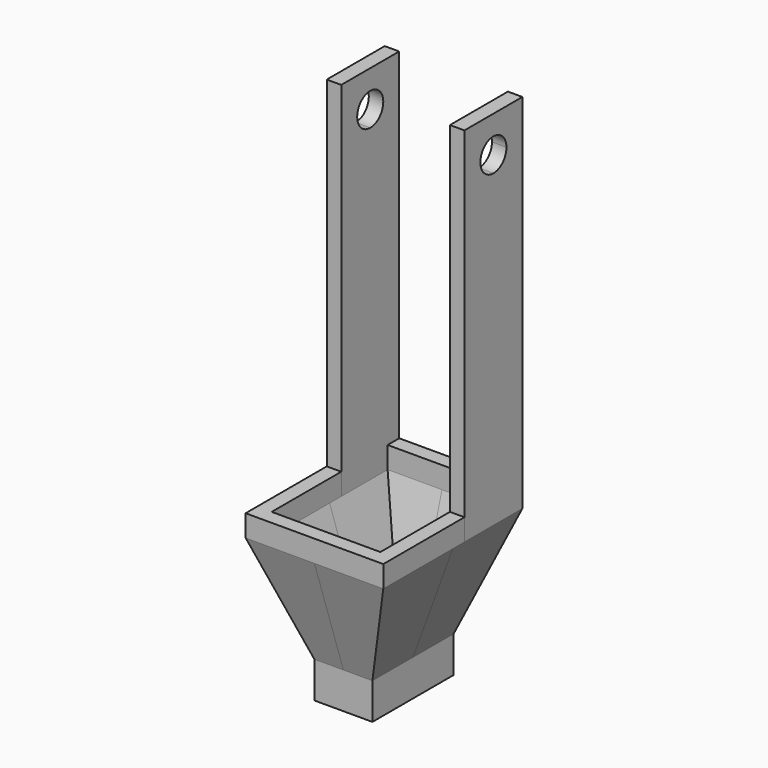
from build123d import *

# Parameters (mm, degrees)
F1_DEPTH  = 40
F3_W      = 8
F3_H      = 13
F4_DEPTH  = 25
F2_W      = 9.5
F2_H      = 8
F5_DEPTH  = 25
F7_DEPTH  = 25
F6_W      = 2.5
F6_H      = 5.5
F8_DEPTH  = 25
F13_W     = 5
F13_H     = 4.5464889724
F14_DEPTH = 2
F16_DEPTH = 2


with BuildPart() as f1:
    # F0 (on Front) → F1 (new body)
    with BuildSketch(Plane.XZ):
        Polygon((-1.4153950295, 12.043859912), (-20.4153950295, 12.043859912), (-20.4153950295, 9.043859912), (-10.9153950295, 9.043859912), (-1.4153950295, 9.043859912), align=None)
    extrude(amount=F1_DEPTH)

    # F2 (on face) → F5 (cut)
    with BuildSketch(Plane(origin=(0, 0, 9.043859912), x_dir=(1, 0, 0), z_dir=(0, 0, -1))):
        with Locations((-6.1653950295, 36)):
            Rectangle(F2_W, F2_H)
        with Locations((-15.6653950295, 36)):
            Rectangle(F2_W, F2_H)
        Polygon((-1.4153950295, 0), (-1.4153950295, 8), (-10.9153950295, 8), (-20.4153950295, 8), (-20.4153950295, 0), (-10.9153950295, 0), align=None)
    extrude(amount=-F5_DEPTH, mode=Mode.SUBTRACT)

    # F2 (on face) → F7 (cut)
    with BuildSketch(Plane(origin=(0, 0, 9.043859912), x_dir=(1, 0, 0), z_dir=(0, 0, -1))):
        Polygon((-3.4153950295, 10), (-3.4153950295, 20), (-18.4153950295, 20), (-18.4153950295, 10), (-10.9153950295, 10), align=None)
        Polygon((-18.4153950295, 20), (-3.4153950295, 20), (-3.4153950295, 30), (-10.9153950295, 30), (-18.4153950295, 30), align=None)
    extrude(amount=-F7_DEPTH, mode=Mode.SUBTRACT)


with BuildPart() as f1b:
    # F0 (on Front) → F1, piece 2 (new body)
    with BuildSketch(Plane.XZ):
        Polygon((-6.9153950295, -5.956140088), (-10.9153950295, -5.956140088), (-14.9153950295, -5.956140088), (-14.9153950295, -10.956140088), (-6.9153950295, -10.956140088), align=None)
    extrude(amount=F1_DEPTH)

    # F3 (on face) → F4 (cut)
    with BuildSketch(Plane(origin=(0, 0, -10.956140088), x_dir=(1, 0, 0), z_dir=(0, 0, -1))):
        with Locations((-10.9153950295, 33.5)):
            Rectangle(F3_W, F3_H)
        with Locations((-10.9153950295, 6.5)):
            Rectangle(F3_W, F3_H)
    extrude(amount=-F4_DEPTH, mode=Mode.SUBTRACT)

    # F6 (on face) → F8 (cut)
    with BuildSketch(Plane.XY.offset(-5.956140088)):
        with Locations((-12.1653950295, -17.25)):
            Rectangle(F6_W, F6_H)
        with Locations((-9.6653950295, -17.25)):
            Rectangle(F6_W, F6_H)
        with Locations((-9.6653950295, -22.75)):
            Rectangle(F6_W, F6_H)
        with Locations((-12.1653950295, -22.75)):
            Rectangle(F6_W, F6_H)
    extrude(amount=-F8_DEPTH, mode=Mode.SUBTRACT)


with BuildPart() as f9:
    # F6 (on face) → F9 section 0
    with BuildSketch(Plane.XY.offset(-5.956140088)):
        Polygon((-14.9153950295, -13), (-14.9153950295, -20), (-13.4153950295, -20), (-13.4153950295, -14.5), (-10.9153950295, -14.5), (-10.9153950295, -13), align=None)
    # F2 (on face) → F9 section 1
    with BuildSketch(Plane(origin=(0, 0, 9.043859912), x_dir=(1, 0, 0), z_dir=(0, 0, -1))):
        Polygon((-18.4153950295, 10), (-18.4153950295, 20), (-20.4153950295, 20), (-20.4153950295, 8), (-10.9153950295, 8), (-10.9153950295, 10), align=None)
    loft()


with BuildPart() as f10:
    # F6 (on face) → F10 section 0
    with BuildSketch(Plane.XY.offset(-5.956140088)):
        Polygon((-8.4153950295, -20), (-6.9153950295, -20), (-6.9153950295, -13), (-10.9153950295, -13), (-10.9153950295, -14.5), (-8.4153950295, -14.5), align=None)
    # F2 (on face) → F10 section 1
    with BuildSketch(Plane(origin=(0, 0, 9.043859912), x_dir=(1, 0, 0), z_dir=(0, 0, -1))):
        Polygon((-1.4153950295, 8), (-1.4153950295, 20), (-3.4153950295, 20), (-3.4153950295, 10), (-10.9153950295, 10), (-10.9153950295, 8), align=None)
    loft()


with BuildPart() as f11:
    # F6 (on face) → F11 section 0
    with BuildSketch(Plane.XY.offset(-5.956140088)):
        Polygon((-10.9153950295, -25.5), (-10.9153950295, -27), (-6.9153950295, -27), (-6.9153950295, -20), (-8.4153950295, -20), (-8.4153950295, -25.5), align=None)
    # F2 (on face) → F11 section 1
    with BuildSketch(Plane(origin=(0, 0, 9.043859912), x_dir=(1, 0, 0), z_dir=(0, 0, -1))):
        Polygon((-3.4153950295, 20), (-1.4153950295, 20), (-1.4153950295, 32), (-10.9153950295, 32), (-10.9153950295, 30), (-3.4153950295, 30), align=None)
    loft()


with BuildPart() as f12:
    # F6 (on face) → F12 section 0
    with BuildSketch(Plane.XY.offset(-5.956140088)):
        Polygon((-14.9153950295, -27), (-10.9153950295, -27), (-10.9153950295, -25.5), (-13.4153950295, -25.5), (-13.4153950295, -20), (-14.9153950295, -20), align=None)
    # F2 (on face) → F12 section 1
    with BuildSketch(Plane(origin=(0, 0, 9.043859912), x_dir=(1, 0, 0), z_dir=(0, 0, -1))):
        Polygon((-20.4153950295, 20), (-18.4153950295, 20), (-18.4153950295, 30), (-10.9153950295, 30), (-10.9153950295, 32), (-20.4153950295, 32), align=None)
    loft()


with BuildPart() as f14:
    # F13 (on face) → F14 (new body)
    with BuildSketch(Plane.YZ.offset(-1.4153950295)):
        with Locations((-10.5, 11.3171043982)):
            Rectangle(F13_W, F13_H)
        Polygon((-18, 9.043859912), (-13, 9.043859912), (-13, 13.5903488845), (-8, 13.5903488845), (-8, 59.043859912), (-18, 59.043859912), align=None)
        with BuildLine():
            ThreePointArc((-10.75, 54.043859912), (-11.4090097423, 52.4528696544), (-13, 51.793859912))
            ThreePointArc((-13, 51.793859912), (-14.5909902577, 55.6348501697), (-10.75, 54.043859912))
        make_face(mode=Mode.SUBTRACT)
    extrude(amount=-F14_DEPTH)


with BuildPart() as f16:
    # F15 (on face) → F16 (new body)
    with BuildSketch(Plane(origin=(-20.4153950295, 0, 0), x_dir=(0, -1, 0), z_dir=(-1, 0, 0))):
        Polygon((8, 59.043859912), (8, 9.043859912), (13, 9.043859912), (18, 9.043859912), (18, 59.043859912), align=None)
        with BuildLine():
            ThreePointArc((15.25, 54.043859912), (14.5909902577, 52.4528696544), (13, 51.793859912))
            ThreePointArc((13, 51.793859912), (11.4090097423, 55.6348501697), (15.25, 54.043859912))
        make_face(mode=Mode.SUBTRACT)
    extrude(amount=-F16_DEPTH)


solid = Compound([f1.part, f1b.part, f9.part, f10.part, f11.part, f12.part, f14.part, f16.part])
